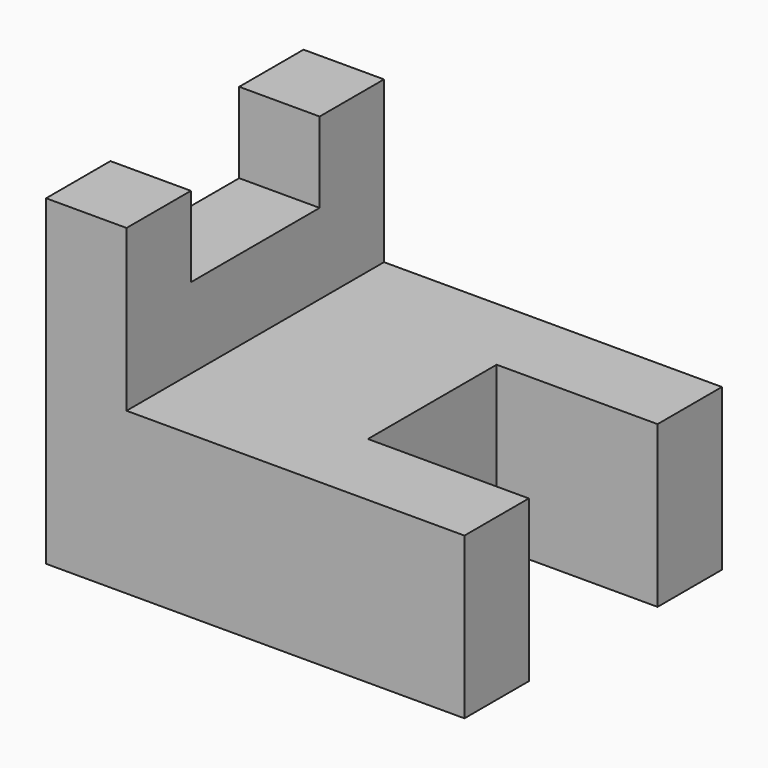
from build123d import *

# Parameters (mm, degrees)
F1_DEPTH = 25.4
F2_W     = 12.7
F2_H     = 12.7
F3_DEPTH = 12.701
F4_W     = 6.35
F4_H     = 12.7
F5_DEPTH = 6.35


with BuildPart() as f1:
    # F0 (on Front) → F1 (new body)
    with BuildSketch(Plane.XZ):
        Polygon((0, 25.4), (0, 0), (33.02, 0), (33.02, 12.7), (6.35, 12.7), (6.35, 25.4), align=None)
    extrude(amount=F1_DEPTH)

    # F2 (on face) → F3 (cut, through all)
    with BuildSketch(Plane.XY.offset(12.7)):
        with Locations((26.67, -12.7)):
            Rectangle(F2_W, F2_H)
    extrude(amount=-F3_DEPTH, mode=Mode.SUBTRACT)

    # F4 (on face) → F5 (cut)
    with BuildSketch(Plane.XY.offset(25.4)):
        with Locations((3.175, -12.7)):
            Rectangle(F4_W, F4_H)
    extrude(amount=-F5_DEPTH, mode=Mode.SUBTRACT)


solid = f1.part
